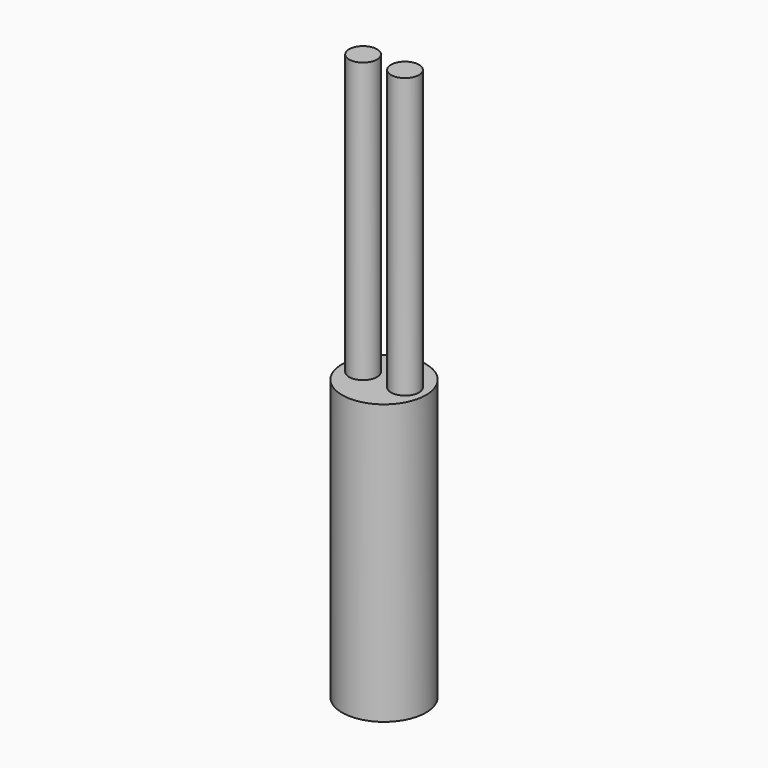
from build123d import *

# Parameters (mm, degrees)
F0_R     = 1.5
F1_DEPTH = 10
F2_R     = 0.5
F3_DEPTH = 10


with BuildPart() as f1:
    # F0 (on Top) → F1 (new body)
    with BuildSketch(Plane.XY):
        Circle(F0_R)
    extrude(amount=F1_DEPTH)

    # F2 (on face) → F3 (join)
    with BuildSketch(Plane.XY.offset(10)):
        with Locations((-0.75, 0)):
            Circle(F2_R)
        with Locations((0.75, 0)):
            Circle(F2_R)
    extrude(amount=F3_DEPTH)


solid = f1.part
